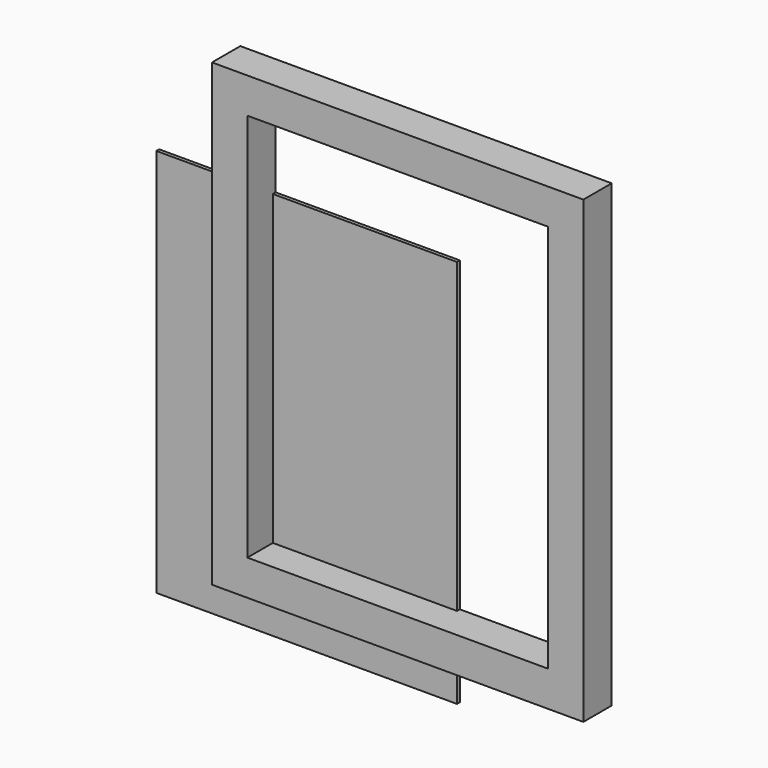
from build123d import *

# Parameters (mm, degrees)
F0_W     = 266.7
F0_H     = 330.2
F0_W_2   = 215.9
F0_H_2   = 279.4
F1_DEPTH = 25.4
F2_W     = 215.9
F2_H     = 279.4
F3_DEPTH = 2.54


with BuildPart() as f1:
    # F0 (on Front) → F1 (new body)
    with BuildSketch(Plane.XZ):
        with Locations((78.213416, 103.588632)):
            Rectangle(F0_W, F0_H)
        with Locations((78.213416, 103.588632)):
            Rectangle(F0_W_2, F0_H_2, mode=Mode.SUBTRACT)
    extrude(amount=F1_DEPTH)


with BuildPart() as f3:
    # F2 (on Front) → F3 (new body)
    with BuildSketch(Plane.XZ):
        with Locations((-5.464097, 44.792147)):
            Rectangle(F2_W, F2_H)
    extrude(amount=F3_DEPTH)


solid = Compound([f1.part, f3.part])
